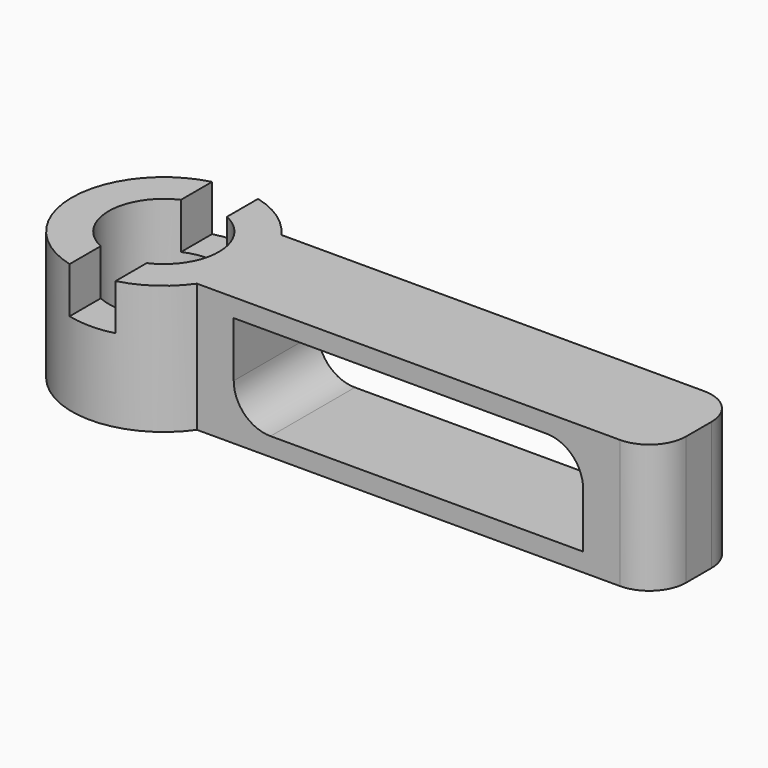
from build123d import *

# Parameters (mm, degrees)
F0_R     = 3
F1_DEPTH = 7
F3_DEPTH = 25
F5_DEPTH = 2.5


with BuildPart() as f1:
    # F0 (on Top) → F1 (new body)
    with BuildSketch(Plane.XY):
        with BuildLine():
            Line((27.09576, 2.867882), (4.09576, 2.867882))
            ThreePointArc((4.09576, 2.867882), (-5, 0), (4.09576, -2.867882))
            Line((4.09576, -2.867882), (27.09576, -2.867882))
            ThreePointArc((27.09576, -2.867882), (28.509974, -2.282096), (29.09576, -0.867882))
            Line((29.09576, -0.867882), (29.09576, 0.867882))
            ThreePointArc((29.09576, 0.867882), (28.509974, 2.282096), (27.09576, 2.867882))
        make_face()
        Circle(F0_R, mode=Mode.SUBTRACT)
    extrude(amount=F1_DEPTH)

    # F2 (on face) → F3 (cut)
    with BuildSketch(Plane.XZ.offset(2.867882)):
        with BuildLine():
            Line((23.09576, 6), (6.09576, 6))
            Line((6.09576, 6), (6.09576, 3))
            ThreePointArc((6.09576, 3), (6.681547, 1.585786), (8.09576, 1))
            Line((8.09576, 1), (25.09576, 1))
            Line((25.09576, 1), (25.09576, 4))
            ThreePointArc((25.09576, 4), (24.509974, 5.414214), (23.09576, 6))
        make_face()
    extrude(amount=-F3_DEPTH, mode=Mode.SUBTRACT)

    # F4 (on face) → F5 (cut)
    with BuildSketch(Plane.XY.offset(7)):
        with BuildLine():
            Line((-1.25, 4.841229), (-1.25, 2.727178))
            ThreePointArc((-1.25, 2.727178), (0, 3), (1.25, 2.727178))
            Line((1.25, 2.727178), (1.25, 4.841229))
            ThreePointArc((1.25, 4.841229), (0, 5), (-1.25, 4.841229))
        make_face()
        with BuildLine():
            ThreePointArc((1.25, -2.727178), (0, -3), (-1.25, -2.727178))
            Line((-1.25, -2.727178), (-1.25, -4.841229))
            ThreePointArc((-1.25, -4.841229), (0, -5), (1.25, -4.841229))
            Line((1.25, -4.841229), (1.25, -2.727178))
        make_face()
    extrude(amount=-F5_DEPTH, mode=Mode.SUBTRACT)


solid = f1.part
